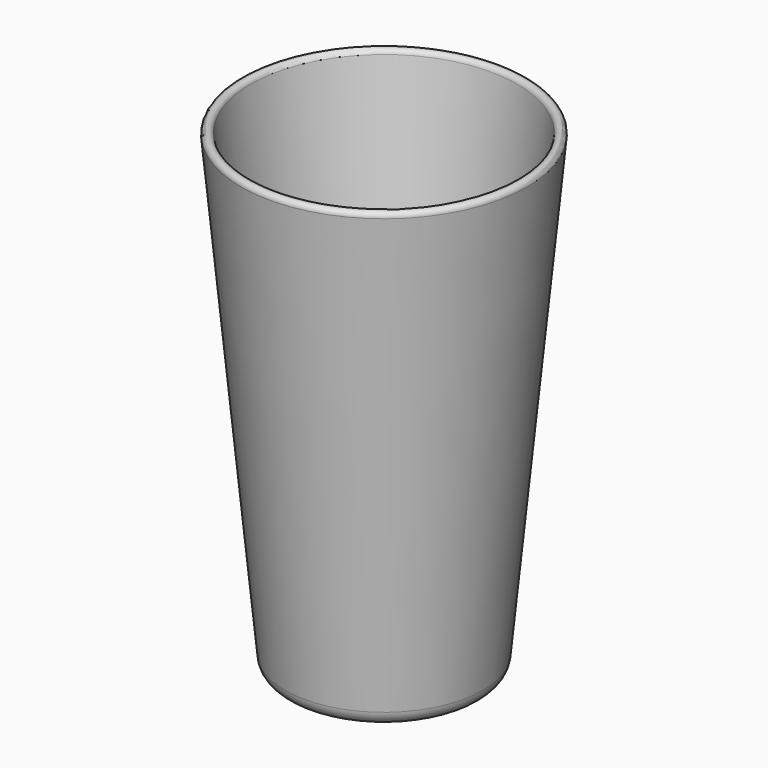
from build123d import *

# Parameters (mm, degrees)
F2_R = 5.08


with BuildPart() as f1:
    # F0 (on Front) → F1 (revolve)
    with BuildSketch(Plane.XZ):
        with BuildLine():
            Line((0, 6.7818), (0, 0))
            Line((0, 0), (30.0609, 0))
            Line((30.0609, 0), (44.062068, 145.664361))
            ThreePointArc((44.062068, 145.664361), (42.726161, 147.310607), (41.0591, 146.000767))
            Line((41.0591, 146.000767), (23.241, 6.7818))
            Line((23.241, 6.7818), (0, 6.7818))
        make_face()
    revolve(axis=Axis((0, 0, 3.3909), (0, 0, -1)))

    # F2
    f2_edges = [f1.edges().sort_by_distance(p)[0] for p in [
        (-30.0609, 0, 0),
        (-23.241, 0, 6.7818),
    ]]
    fillet(f2_edges, radius=F2_R)


solid = f1.part
